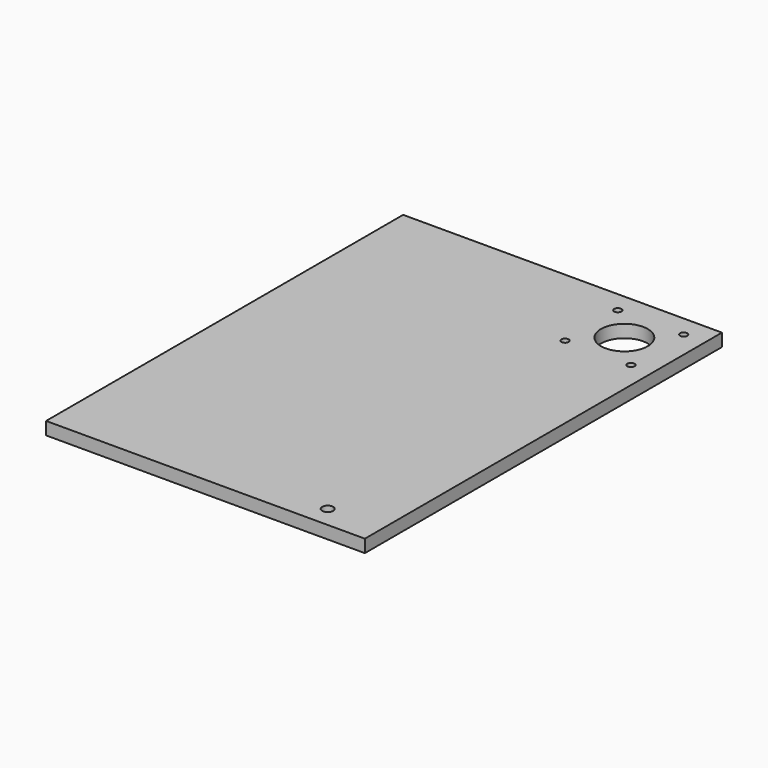
from build123d import *

# Parameters (mm, degrees)
SKETCH_W      = 150
SKETCH_H      = 210
PAD_DEPTH     = 6
SKETCH001_R   = 1.7
SKETCH001_R_2 = 11
SKETCH001_R_3 = 2.589053
POCKET_DEPTH  = 6


with BuildPart() as part:
    # Sketch → Pad (new body)
    with BuildSketch(Plane.XY):
        with Locations((75, 105)):
            Rectangle(SKETCH_W, SKETCH_H)
    extrude(amount=PAD_DEPTH)

    # Sketch001 (on Face6 of Pad) → Pocket (cut)
    with BuildSketch(Plane.XY.offset(6)):
        with Locations((140, 200)):
            Circle(SKETCH001_R)
        with Locations((109, 200)):
            Circle(SKETCH001_R)
        with Locations((109, 169)):
            Circle(SKETCH001_R)
        with Locations((140, 169)):
            Circle(SKETCH001_R)
        with Locations((124.5, 184.50083)):
            Circle(SKETCH001_R_2)
        with Locations((124.5, 10)):
            Circle(SKETCH001_R_3)
    extrude(amount=-POCKET_DEPTH, mode=Mode.SUBTRACT)


solid = part.part
